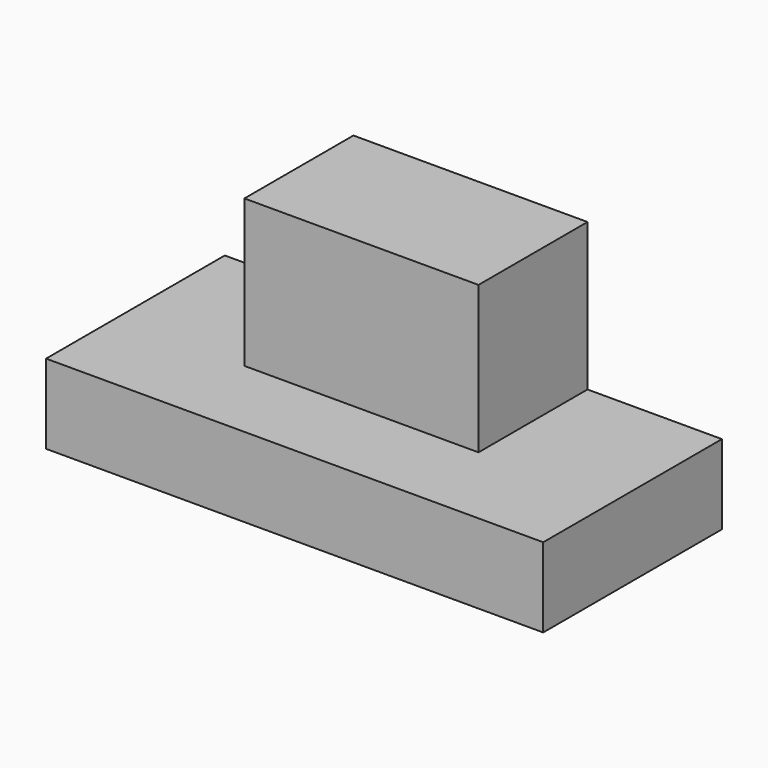
from build123d import *

# Parameters (mm, degrees)
F0_W     = 127.5347471237
F0_H     = 50.8334226906
F1_DEPTH = 50.8
F2_DEPTH = 32.766
F3_W     = 53.2384
F3_H     = 30.988
F4_DEPTH = 33.528
F5_DEPTH = 4.826
F6_DEPTH = 7.366
F7_DEPTH = 8.89
F8_DEPTH = 9.652
F9_DEPTH = 5.334


with BuildPart() as f1:
    # F0 (on Front) → F1 (new body)
    with BuildSketch(Plane.XZ):
        with Locations((63.7673735619, 25.4167113453)):
            Rectangle(F0_W, F0_H)
    extrude(amount=F1_DEPTH)

    # F2 (cut): a face of the model
    f2_faces = [f1.faces().sort_by_distance(p)[0] for p in [
        (63.7673735619, -25.4, 50.8334226906),
    ]]
    extrude(f2_faces, amount=-F2_DEPTH, mode=Mode.SUBTRACT)

    # F3 (on face) → F4 (join)
    with BuildSketch(Plane.XY.offset(18.0674226906)):
        with Locations((65.5213113515, -15.494)):
            Rectangle(F3_W, F3_H)
    extrude(amount=F4_DEPTH)

    # F5 (cut): a face of the model
    f5_faces = [f1.faces().sort_by_distance(p)[0] for p in [
        (127.5347471237, -25.4, 9.0337113453),
    ]]
    extrude(f5_faces, amount=-F5_DEPTH, mode=Mode.SUBTRACT)

    # F6 (add): a face of the model
    f6_faces = [f1.faces().sort_by_distance(p)[0] for p in [
        (0, -25.4, 9.0337113453),
    ]]
    extrude(f6_faces, amount=-F6_DEPTH)

    # F7 (add): a face of the model
    f7_faces = [f1.faces().sort_by_distance(p)[0] for p in [
        (0, -25.4, 9.0337113453),
    ]]
    extrude(f7_faces, amount=-F7_DEPTH)

    # F8 (cut): a face of the model
    f8_faces = [f1.faces().sort_by_distance(p)[0] for p in [
        (0, -25.4, 9.0337113453),
    ]]
    extrude(f8_faces, amount=-F8_DEPTH, mode=Mode.SUBTRACT)

    # F9 (add): a face of the model
    f9_faces = [f1.faces().sort_by_distance(p)[0] for p in [
        (66.1803735619, -50.8, 9.0337113453),
    ]]
    extrude(f9_faces, amount=-F9_DEPTH)


solid = f1.part
